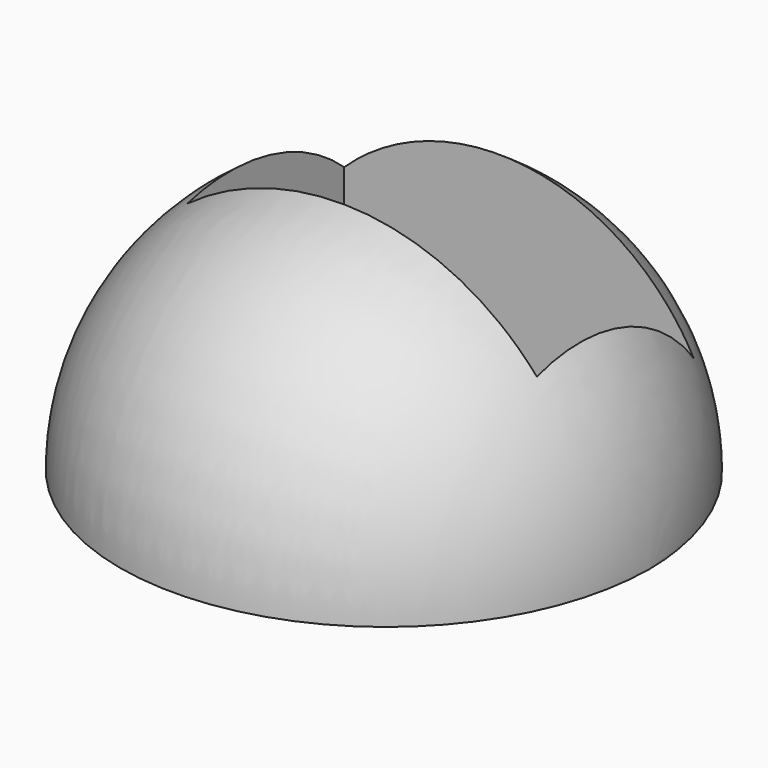
from build123d import *

# Parameters (mm, degrees)
F2_W     = 56.824426
F2_H     = 80.987152
F3_DEPTH = 25.4
F4_W     = 22.3597
F4_H     = 12.551443
F5_DEPTH = 25.4


with BuildPart() as f1:
    # F0 (on Top) → F1 (revolve)
    with BuildSketch(Plane.XY):
        with BuildLine():
            Line((0, 0), (-33.954278, 0))
            ThreePointArc((-33.954278, 0), (-16.977139, -16.825613), (0, 0))
        make_face()
    revolve(axis=Axis((-16.977139, 0, 0), (1, 0, 0)))

    # F2 (on Top) → F3 (cut)
    with BuildSketch(Plane.XY):
        with Locations((-18.179579, 5.196208)):
            Rectangle(F2_W, F2_H)
    extrude(amount=-F3_DEPTH, mode=Mode.SUBTRACT)

    # F4 (on Top) → F5 (cut)
    with BuildSketch(Plane.XY):
        with Locations((-15.63402, 2.84759)):
            Rectangle(F4_W, F4_H)
    extrude(amount=F5_DEPTH, mode=Mode.SUBTRACT)


solid = f1.part
